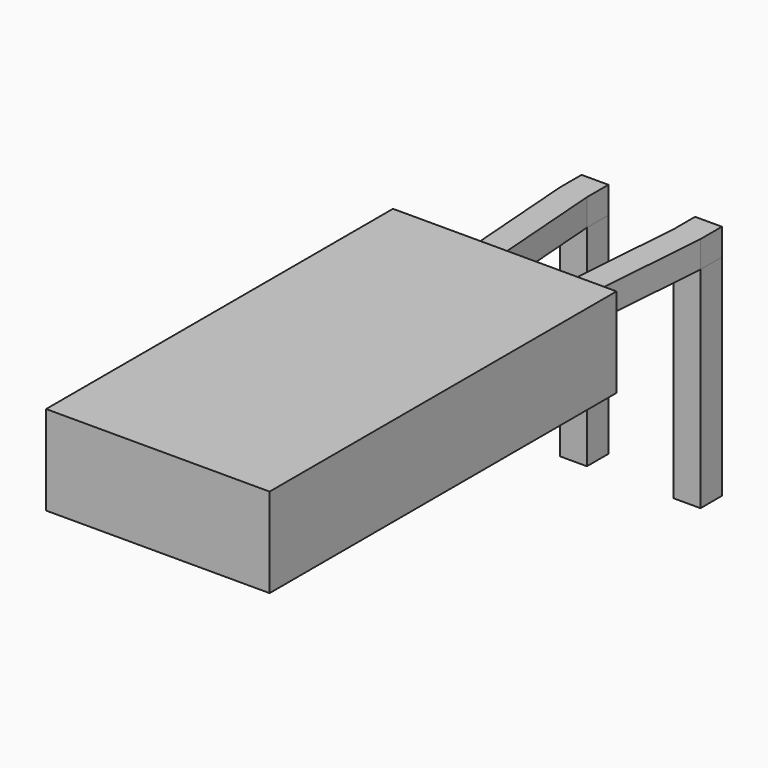
from build123d import *

# Parameters (mm, degrees)
SKETCH_W       = 0.6
SKETCH_H       = 0.6
PAD_DEPTH      = 2.7
PAD_DEPTH_BACK = 2
PAD001_DEPTH   = 0.6
SKETCH002_W    = 2.54
SKETCH002_H    = 0.6
PAD002_DEPTH   = 1
SKETCH004_W    = 5
SKETCH004_H    = 2
PAD003_DEPTH   = 9.7


with BuildPart() as pad:
    # Sketch → Pad (new body, two sides)
    with BuildSketch(Plane.XY) as pad_sk:
        Rectangle(SKETCH_W, SKETCH_H)
        with Locations((2.54, 0)):
            Rectangle(SKETCH_W, SKETCH_H)
    extrude(amount=PAD_DEPTH)
    extrude(pad_sk.sketch, amount=-PAD_DEPTH_BACK)


with BuildPart() as pad001:
    # Sketch001 → Pad001 (new body)
    with BuildSketch(Plane.XY.offset(2.7)):
        Polygon((0.3, 0.3), (-0.3, 0.3), (-0.3, -0.3), (0, -4.31), (0.6, -4.31), (0.3, -0.3), align=None)
        Polygon((2.84, 0.3), (2.24, 0.3), (2.24, -0.3), (1.94, -4.31), (2.54, -4.31), (2.84, -0.3), align=None)
    extrude(amount=PAD001_DEPTH)


with BuildPart() as pad002:
    # Sketch002 → Pad002 (new body)
    with BuildSketch(Plane.XZ.offset(4.31)):
        with Locations((1.27, 3)):
            Rectangle(SKETCH002_W, SKETCH002_H)
    extrude(amount=PAD002_DEPTH)


with BuildPart() as pad003:
    # Sketch004 → Pad003 (new body)
    with BuildSketch(Plane.XZ.offset(3.81)):
        with Locations((1.27, 3)):
            Rectangle(SKETCH004_W, SKETCH004_H)
    extrude(amount=PAD003_DEPTH)


with BuildPart() as revolution001:
    # Sketch005 → Revolution001 (revolve)
    with BuildSketch(Plane.YZ.offset(1.27)):
        Polygon((-5.01, 3), (-5.51, 3), (-5.51, 3.5), align=None)
    revolve(axis=Axis((1.27, -3.977201, 3), (0, -1, 0)))


solid = Compound([pad.part, pad001.part, pad002.part, pad003.part, revolution001.part])
